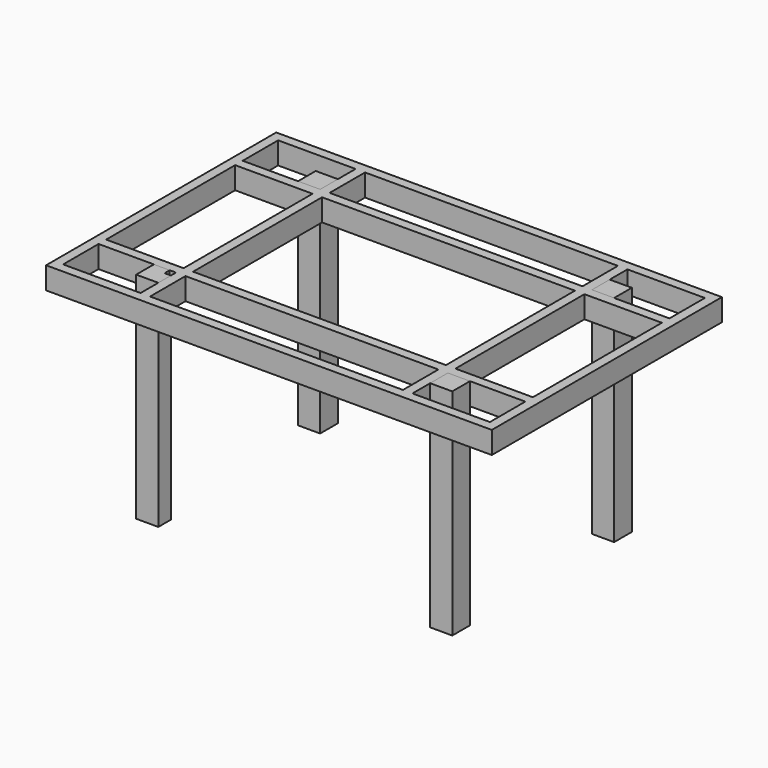
from build123d import *

# Parameters (mm, degrees)
F0_W     = 38.1
F0_H     = 38.1
F0_W_2   = 1016
F0_H_2   = 647.7
F0_W_3   = 311.15
F0_H_3   = 177.8
F1_DEPTH = 88.9
F3_DEPTH = 863.6
F2_W     = 88.9
F2_H     = 88.9


with BuildPart() as f1:
    # F0 (on Top) → F1 (new body)
    with BuildSketch(Plane.XY):
        with Locations((527.05, 558.8)):
            Rectangle(F0_W, F0_H)
        with Locations((0, 558.8)):
            Rectangle(F0_W_2, F0_H)
        with Locations((876.3, 0)):
            Rectangle(F0_W, F0_H_2)
        with Locations((876.3, 342.9)):
            Rectangle(F0_W, F0_H)
        with Locations((-876.3, 342.9)):
            Rectangle(F0_W, F0_H)
        with Locations((-876.3, 0)):
            Rectangle(F0_W, F0_H_2)
        with Locations((-527.05, 558.8)):
            Rectangle(F0_W, F0_H)
        with Locations((0, -558.8)):
            Rectangle(F0_W_2, F0_H)
        with Locations((527.05, -558.8)):
            Rectangle(F0_W, F0_H)
        with Locations((876.3, -342.9)):
            Rectangle(F0_W, F0_H)
        Polygon((546.1, 577.85), (546.1, 539.75), (857.25, 539.75), (857.25, 361.95), (895.35, 361.95), (895.35, 577.85), align=None)
        with Locations((-876.3, -342.9)):
            Rectangle(F0_W, F0_H)
        with Locations((-527.05, -558.8)):
            Rectangle(F0_W, F0_H)
        Polygon((-895.35, 361.95), (-857.25, 361.95), (-857.25, 539.75), (-546.1, 539.75), (-546.1, 577.85), (-895.35, 577.85), align=None)
        Polygon((857.25, -539.75), (546.1, -539.75), (546.1, -577.85), (895.35, -577.85), (895.35, -361.95), (857.25, -361.95), align=None)
        Polygon((-857.25, -539.75), (-857.25, -361.95), (-895.35, -361.95), (-895.35, -577.85), (-546.1, -577.85), (-546.1, -539.75), align=None)
        with Locations((-701.675, 342.9)):
            Rectangle(F0_W_3, F0_H)
        with Locations((-527.05, 450.85)):
            Rectangle(F0_W, F0_H_3)
        with Locations((-527.05, 342.9)):
            Rectangle(F0_W, F0_H)
        with Locations((-527.05, 0)):
            Rectangle(F0_W, F0_H_2)
        with Locations((-701.675, -342.9)):
            Rectangle(F0_W_3, F0_H)
        with Locations((-527.05, -450.85)):
            Rectangle(F0_W, F0_H_3)
        with Locations((-527.05, -342.9)):
            Rectangle(F0_W, F0_H)
        with Locations((0, -342.9)):
            Rectangle(F0_W_2, F0_H)
        with Locations((527.05, -450.85)):
            Rectangle(F0_W, F0_H_3)
        with Locations((527.05, -342.9)):
            Rectangle(F0_W, F0_H)
        with Locations((701.675, -342.9)):
            Rectangle(F0_W_3, F0_H)
        with Locations((527.05, 0)):
            Rectangle(F0_W, F0_H_2)
        with Locations((527.05, 342.9)):
            Rectangle(F0_W, F0_H)
        with Locations((527.05, 450.85)):
            Rectangle(F0_W, F0_H_3)
        with Locations((701.675, 342.9)):
            Rectangle(F0_W_3, F0_H)
        with Locations((0, 342.9)):
            Rectangle(F0_W_2, F0_H)
    extrude(amount=-F1_DEPTH)


with BuildPart() as f3:
    # F2 (on face) → F3 (new body)
    with BuildSketch(Plane.XY):
        Polygon((-571.5, -387.35), (-571.5, -361.95), (-635, -361.95), (-635, -450.85), (-546.1, -450.85), (-546.1, -387.35), align=None)
    extrude(amount=-F3_DEPTH)


with BuildPart() as f3b:
    # F2 (on face) → F3, piece 2 (new body)
    with BuildSketch(Plane.XY):
        with Locations((590.55, -406.4)):
            Rectangle(F2_W, F2_H)
    extrude(amount=-F3_DEPTH)


with BuildPart() as f3c:
    # F2 (on face) → F3, piece 3 (new body)
    with BuildSketch(Plane.XY):
        with Locations((590.55, 406.4)):
            Rectangle(F2_W, F2_H)
    extrude(amount=-F3_DEPTH)


with BuildPart() as f3d:
    # F2 (on face) → F3, piece 4 (new body)
    with BuildSketch(Plane.XY):
        with Locations((-590.55, 406.4)):
            Rectangle(F2_W, F2_H)
    extrude(amount=-F3_DEPTH)


solid = Compound([f1.part, f3.part, f3b.part, f3c.part, f3d.part])
